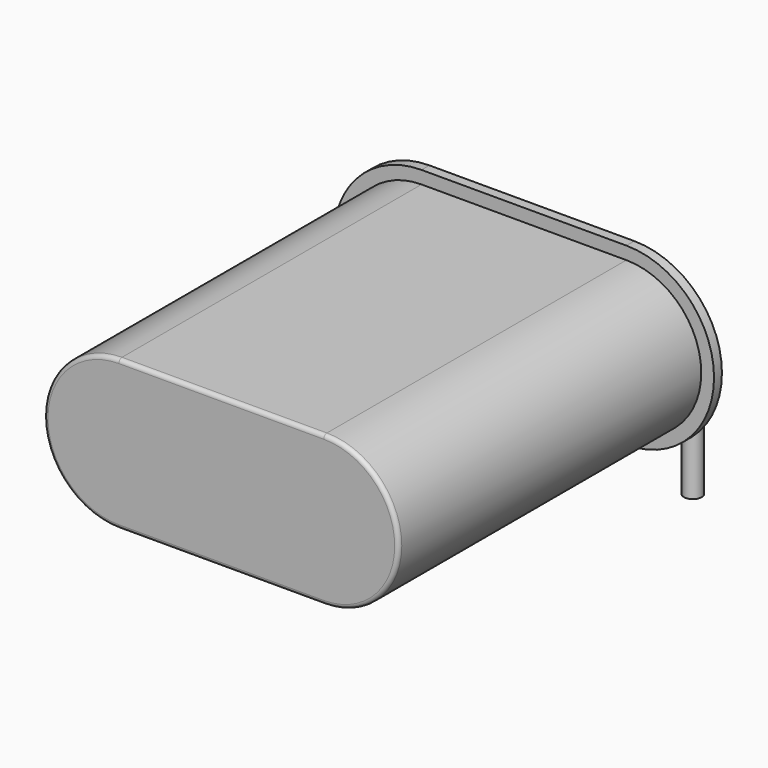
from build123d import *

# Parameters (mm, degrees)
PAD_DEPTH    = 0.5
PAD001_DEPTH = 19.7
FILLET_R     = 0.2
SKETCH_R     = 0.45
SKETCH002_R  = 0.45


with BuildPart() as pad:
    # Sketch004 → Pad (new body)
    with BuildSketch(Plane.XZ.offset(2.5)):
        with BuildLine():
            ThreePointArc((0.975, 9), (-3.475, 4.55), (0.975, 0.1))
            Line((0.975, 0.1), (11.375, 0.1))
            ThreePointArc((11.375, 0.1), (15.825, 4.55), (11.375, 9))
            Line((0.975, 9), (11.375, 9))
        make_face()
    extrude(amount=PAD_DEPTH)


with BuildPart() as fillet_body:
    # Sketch005 → Pad001 (new body)
    with BuildSketch(Plane.XZ.offset(2.5)):
        with BuildLine():
            ThreePointArc((0.975, 8.35), (-2.825, 4.55), (0.975, 0.75))
            Line((0.975, 0.75), (11.375, 0.75))
            ThreePointArc((11.375, 0.75), (15.175, 4.55), (11.375, 8.35))
            Line((0.975, 8.35), (11.375, 8.35))
        make_face()
    extrude(amount=PAD001_DEPTH)

    # Fillet
    fillet_edges = [fillet_body.edges().sort_by_distance(p)[0] for p in [
        (6.175, -22.2, 0.75),
        (-2.825, -22.2, 4.55),
        (6.175, -22.2, 8.35),
        (15.175, -22.2, 4.55),
    ]]
    fillet(fillet_edges, radius=FILLET_R)


with BuildPart() as sweep_body:
    # Sweep: sweep along a path in Sketch001
    with BuildLine(Plane.YZ) as sweep_path:
        Line((0, -3), (0, 3.925))
        ThreePointArc((0, 3.925), (-0.183058, 4.366942), (-0.625, 4.55))
        Line((-0.625, 4.55), (-3.75, 4.55))
    # Sketch → Sweep (sweep)
    with BuildSketch(Plane.XY.offset(0.1)):
        Circle(SKETCH_R)
    sweep(path=sweep_path.line)


with BuildPart() as sweep001:
    # Sweep001: sweep along a path in Sketch001
    with BuildLine(Plane.YZ) as sweep001_path:
        Line((0, -3), (0, 3.925))
        ThreePointArc((0, 3.925), (-0.183058, 4.366942), (-0.625, 4.55))
        Line((-0.625, 4.55), (-3.75, 4.55))
    # Sketch002 → Sweep001 (sweep)
    with BuildSketch(Plane.XY.offset(0.1)):
        with Locations((12.35, 0)):
            Circle(SKETCH002_R)
    sweep(path=sweep001_path.line)


solid = Compound([pad.part, fillet_body.part, sweep_body.part, sweep001.part])
